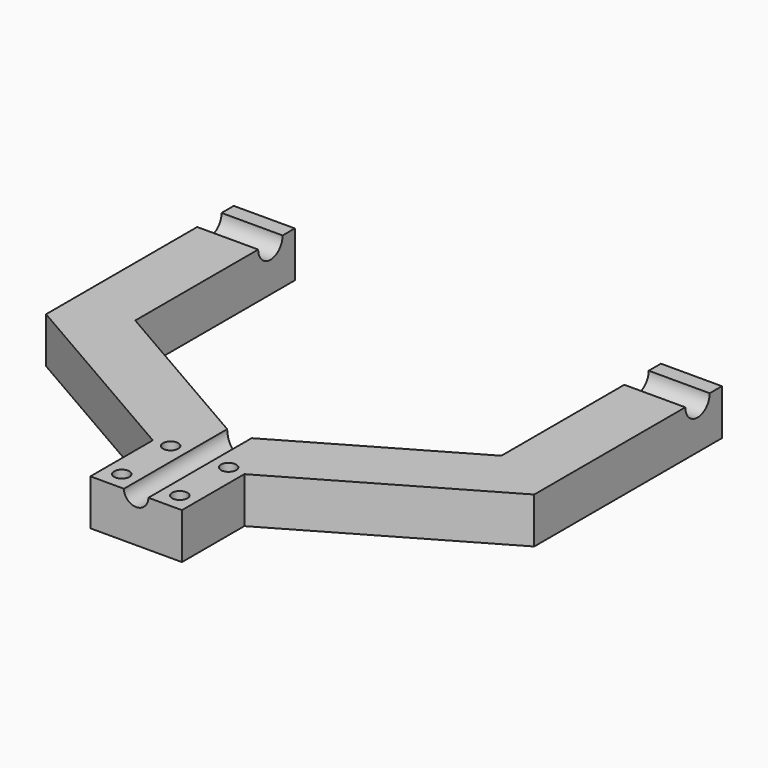
from build123d import *

# Parameters (mm, degrees)
F1_DEPTH = 15
F3_DEPTH = 50
F5_DEPTH = 160
F6_R     = 2.5
F7_DEPTH = 15


with BuildPart() as f1:
    # F0 (on Top) → F1 (new body)
    with BuildSketch(Plane.XY):
        Polygon((-15, 0), (15, 0), (15, 25.566243), (80, 63.094011), (80, 140), (60, 140), (60, 74.641016), (0, 40), (-60, 74.641016), (-60, 140), (-80, 140), (-80, 63.094011), (-15, 25.566243), align=None)
    extrude(amount=F1_DEPTH)

    # F2 (on face) → F3 (cut)
    with BuildSketch(Plane.XZ):
        with BuildLine():
            Line((4, 15), (-4, 15))
            ThreePointArc((-4, 15), (0, 11), (4, 15))
        make_face()
    extrude(amount=-F3_DEPTH, mode=Mode.SUBTRACT)

    # F4 (on face) → F5 (cut, through all)
    with BuildSketch(Plane(origin=(-80, 0, 0), x_dir=(0, -1, 0), z_dir=(-1, 0, 0))):
        with BuildLine():
            Line((-125, 15), (-135, 15))
            ThreePointArc((-135, 15), (-130, 10), (-125, 15))
        make_face()
    extrude(amount=-F5_DEPTH, mode=Mode.SUBTRACT)

    # F6 (on face) → F7 (cut, through all)
    with BuildSketch(Plane.XY.offset(15)):
        with Locations((-9.5, 6)):
            Circle(F6_R)
        with Locations((-9.5, 26)):
            Circle(F6_R)
        with Locations((9.5, 6)):
            Circle(F6_R)
        with Locations((9.5, 26)):
            Circle(F6_R)
    extrude(amount=-F7_DEPTH, mode=Mode.SUBTRACT)


solid = f1.part
